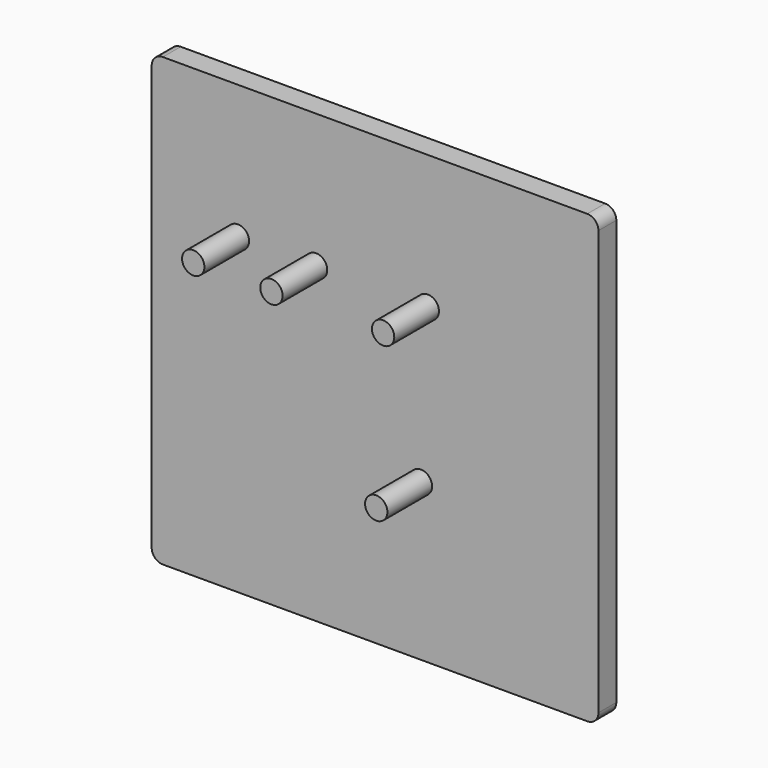
from build123d import *

# Parameters (mm, degrees)
F0_W     = 200
F0_H     = 200
F1_DEPTH = 10
F2_R     = 5
F3_R     = 5
F4_DEPTH = 25


with BuildPart() as f1:
    # F0 (on Front) → F1 (new body)
    with BuildSketch(Plane.XZ):
        Rectangle(F0_W, F0_H)
    extrude(amount=F1_DEPTH)

    # F2
    f2_edges = [f1.edges().sort_by_distance(p)[0] for p in [
        (-100, -5, 100),
        (-100, -5, -100),
        (100, -5, -100),
        (100, -5, 100),
    ]]
    fillet(f2_edges, radius=F2_R)

    # F3 (on face) → F4 (join)
    with BuildSketch(Plane.XZ.offset(10)):
        with Locations((-61.405938, 40)):
            Circle(F3_R)
        with Locations((-26.405938, 40)):
            Circle(F3_R)
        with Locations((23.594062, 40)):
            Circle(F3_R)
        with Locations((20.524925, -30)):
            Circle(F3_R)
    extrude(amount=F4_DEPTH)


solid = f1.part
